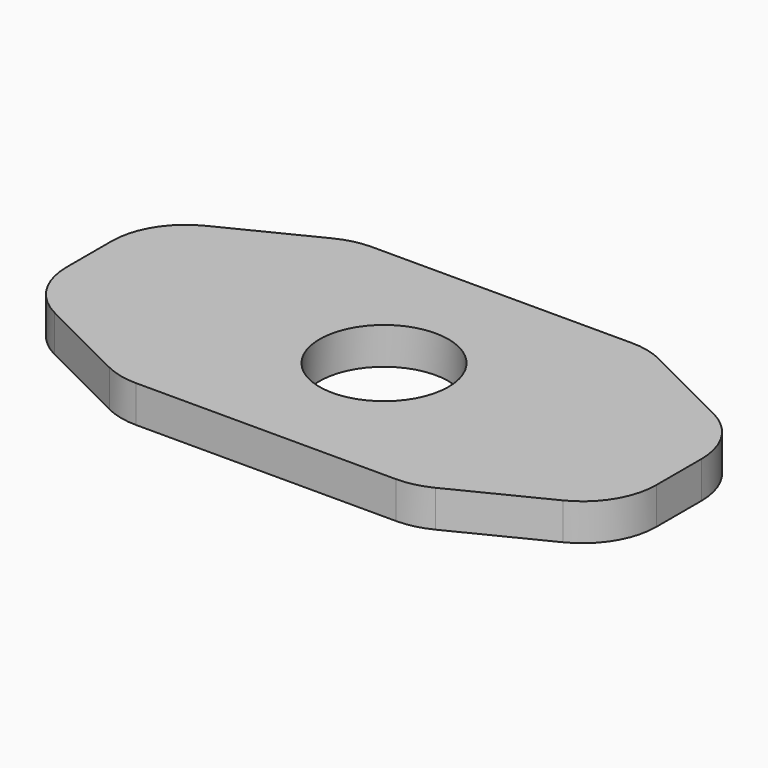
from build123d import *

# Parameters (mm, degrees)
F0_R     = 5.55625
F1_DEPTH = 3.175
F2_R     = 6.35


with BuildPart() as f1:
    # F0 (on Top) → F1 (new body)
    with BuildSketch(Plane.XY):
        Polygon((-12.7, 12.7), (-25.4, 6.35), (-25.4, -6.35), (-12.7, -12.7), (12.7, -12.7), (25.4, -6.35), (25.4, 6.35), (12.7, 12.7), align=None)
        Circle(F0_R, mode=Mode.SUBTRACT)
    extrude(amount=F1_DEPTH)

    # F2
    f2_edges = [f1.edges().sort_by_distance(p)[0] for p in [
        (-12.7, -12.7, 1.5875),
        (12.7, -12.7, 1.5875),
        (25.4, -6.35, 1.5875),
        (25.4, 6.35, 1.5875),
        (12.7, 12.7, 1.5875),
        (-12.7, 12.7, 1.5875),
        (-25.4, 6.35, 1.5875),
        (-25.4, -6.35, 1.5875),
    ]]
    fillet(f2_edges, radius=F2_R)


solid = f1.part
